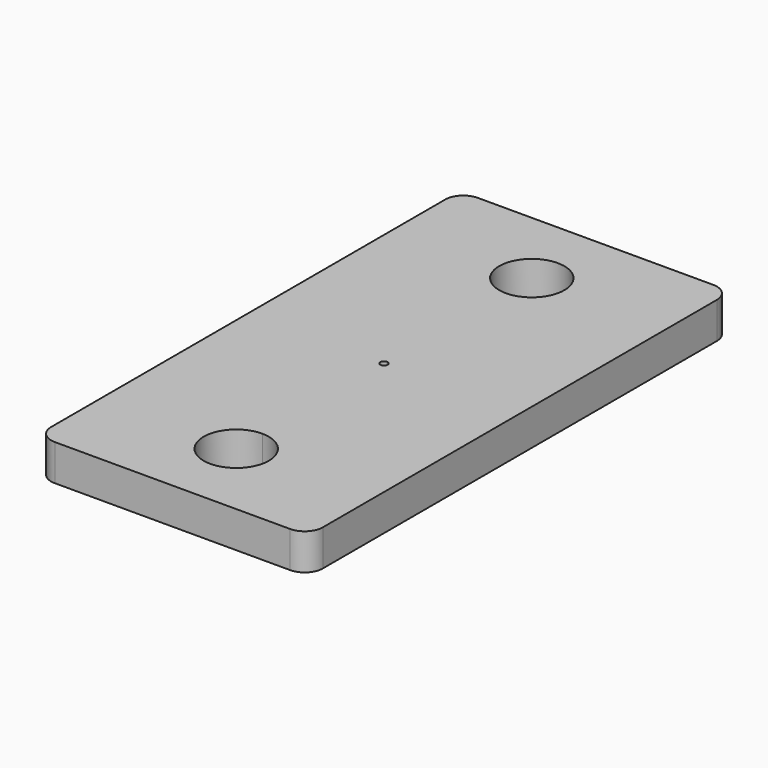
from build123d import *

# Parameters (mm, degrees)
F1_DEPTH = 10


with BuildPart() as f1:
    # F0 (on Top) → F1 (new body)
    with BuildSketch(Plane.XY):
        with BuildLine():
            ThreePointArc((37.5, 66.969491), (36.035534, 70.505025), (32.5, 71.969491))
            Line((32.5, 71.969491), (-32.5, 71.969491))
            ThreePointArc((-32.5, 71.969491), (-36.035534, 70.505025), (-37.5, 66.969491))
            Line((-37.5, 66.969491), (-37.5, -69.030509))
            ThreePointArc((-37.5, -69.030509), (-36.035534, -72.566042), (-32.5, -74.030509))
            Line((-32.5, -74.030509), (32.5, -74.030509))
            ThreePointArc((32.5, -74.030509), (36.035534, -72.566042), (37.5, -69.030509))
            Line((37.5, -69.030509), (37.5, 66.969491))
        make_face()
        with BuildLine():
            ThreePointArc((9, -52.030509), (-6.363961, -58.39447), (0, -43.030509))
            ThreePointArc((0, -43.030509), (6.363961, -45.666547), (9, -52.030509))
        make_face(mode=Mode.SUBTRACT)
        with BuildLine():
            ThreePointArc((1, -1.030509), (0.707107, -1.737615), (0, -2.030509))
            ThreePointArc((0, -2.030509), (-1, -1.030509), (0, -0.030509))
            ThreePointArc((0, -0.030509), (0.707107, -0.323402), (1, -1.030509))
        make_face(mode=Mode.SUBTRACT)
        with BuildLine():
            ThreePointArc((9, 49.969491), (6.363961, 43.60553), (0, 40.969491))
            ThreePointArc((0, 40.969491), (-6.363961, 56.333453), (9, 49.969491))
        make_face(mode=Mode.SUBTRACT)
    extrude(amount=F1_DEPTH)


solid = f1.part
